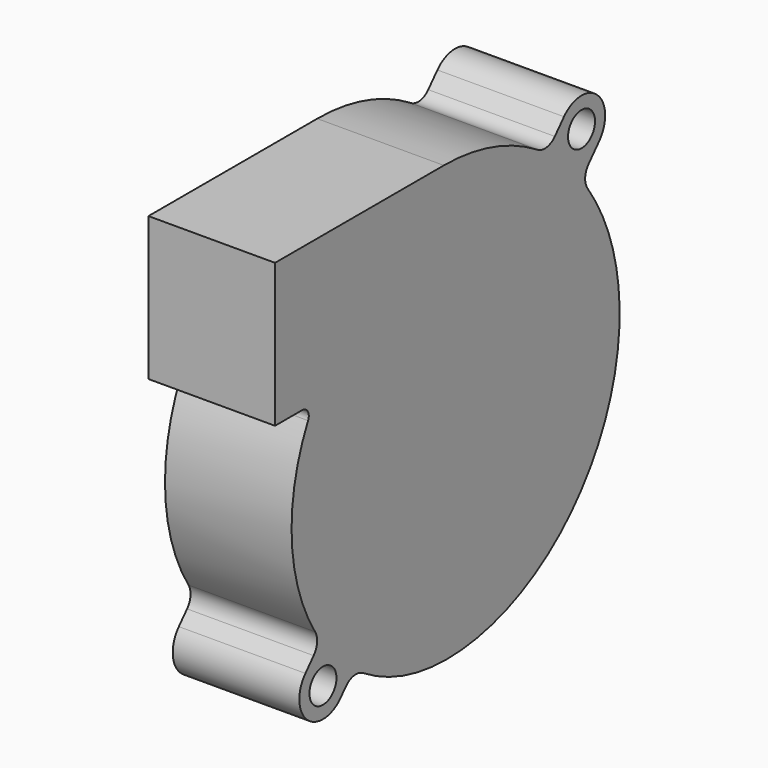
from build123d import *

# Parameters (mm, degrees)
F0_R     = 2
F0_R_2   = 16
F0_R_3   = 12
F1_DEPTH = 15


with BuildPart() as f1:
    # F0 (on Right) → F1 (new body)
    with BuildSketch(Plane.YZ):
        with BuildLine():
            Line((-0.4, 27.5), (-25.4, 27.5))
            Line((-25.4, 27.5), (-25.4, 10.5))
            Line((-25.4, 10.5), (-21.4, 10.5))
            ThreePointArc((-21.4, 10.5), (-20.548823, 10.024878), (-20.506471, 9.050995))
            ThreePointArc((-20.506471, 9.050995), (-22.92552, -2.312826), (-19.46899, -13.405194))
            ThreePointArc((-19.46899, -13.405194), (-19.173329, -14.639406), (-19.679917, -15.803047))
            Line((-19.679917, -15.803047), (-20.900008, -17.156934))
            ThreePointArc((-20.900008, -17.156934), (-20.643066, -22.100008), (-15.699992, -21.843066))
            Line((-15.699992, -21.843066), (-14.897991, -20.953117))
            ThreePointArc((-14.897991, -20.953117), (-13.681238, -20.31018), (-12.337139, -20.605569))
            ThreePointArc((-12.337139, -20.605569), (-6.425556, -23.285765), (0, -24.203636))
            ThreePointArc((0, -24.203636), (17.615164, -17.19478), (25.6, 0))
            ThreePointArc((25.6, 0), (24.637214, 8.619178), (20.897333, 16.444169))
            ThreePointArc((20.897333, 16.444169), (20.536633, 17.715302), (21.047297, 18.933951))
            Line((21.047297, 18.933951), (22.600008, 20.656934))
            ThreePointArc((22.600008, 20.656934), (22.343066, 25.600008), (17.399992, 25.343066))
            Line((17.399992, 25.343066), (16.043884, 23.838246))
            ThreePointArc((16.043884, 23.838246), (14.83197, 23.195972), (13.491283, 23.485466))
            ThreePointArc((13.491283, 23.485466), (6.829873, 26.476243), (-0.4, 27.5))
        make_face()
        with Locations((-18.3, -19.5)):
            Circle(F0_R, mode=Mode.SUBTRACT)
        Circle(F0_R_2, mode=Mode.SUBTRACT)
        with Locations((20, 23)):
            Circle(F0_R, mode=Mode.SUBTRACT)
        Circle(F0_R_2)
        Circle(F0_R_3, mode=Mode.SUBTRACT)
        Circle(F0_R_3)
    extrude(amount=F1_DEPTH)


solid = f1.part
